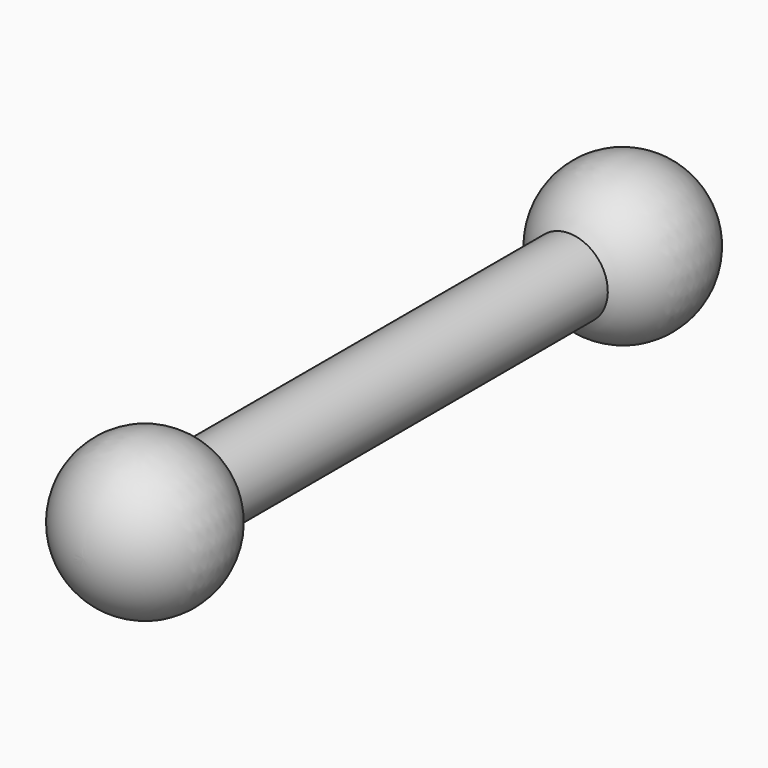
from build123d import *


with BuildPart() as f1:
    # F0 (on Right) → F1 (revolve)
    with BuildSketch(Plane.YZ):
        with BuildLine():
            Line((54.6184698647, 12.7), (-97.7815301353, 12.7))
            ThreePointArc((-97.7815301353, 12.7), (-126.3473849005, 24.4092996944), (-145.114992374, -0.1038124605))
            Line((-145.114992374, -0.1038124605), (102.0780873498, -0.0104902195))
            ThreePointArc((102.0780873498, -0.0104902195), (83.2493472907, 24.64482365), (54.6184698647, 12.7))
        make_face()
    revolve(axis=Axis((0, -15.1534155011, -0.0547483621), (0, -0.9999999287, -0.0003775277)))


solid = f1.part
